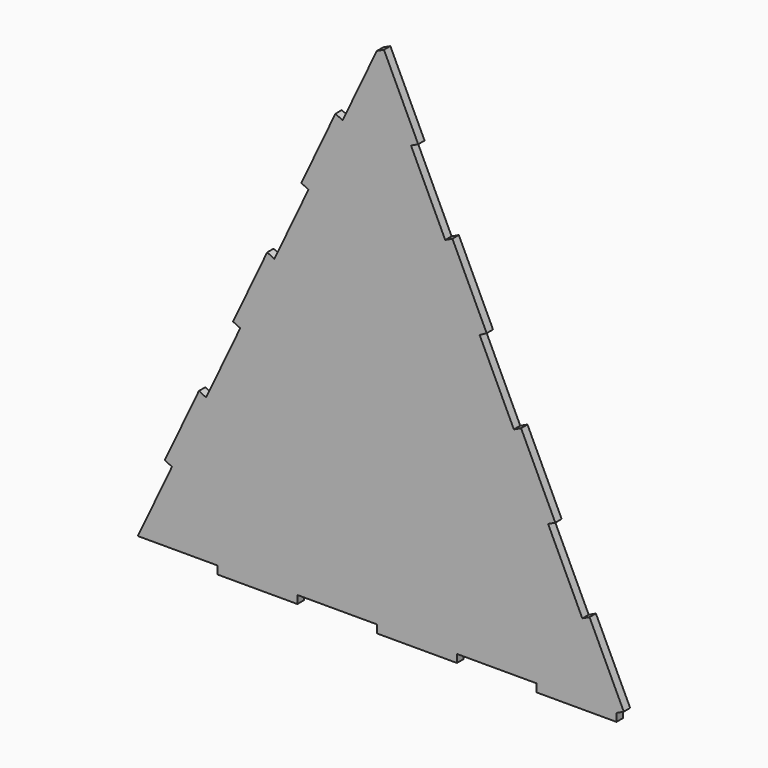
from build123d import *

# Parameters (mm, degrees)
F0_W     = 25.4
F0_H     = 2.54
F1_DEPTH = 2.54


with BuildPart() as f1:
    # F0 (on Front) → F1 (new body)
    with BuildSketch(Plane.XZ):
        Polygon((10.900511, 62.895621), (0, 85.837697), (-10.866994, 62.879726), (-21.733987, 39.921754), (-32.600981, 16.963783), (-43.467974, -5.994189), (-54.334968, -28.95216), (-65.201961, -51.910132), (-76.068955, -74.868103), (-50.668955, -74.868103), (-25.268955, -74.868103), (0.131045, -74.868103), (25.531045, -74.868103), (50.931045, -74.868103), (76.356445, -74.868103), (65.455934, -51.926027), (54.555423, -28.983951), (43.654912, -6.041875), (32.7544, 16.900201), (21.801022, 39.953545), align=None)
        Polygon((2.294208, 86.927748), (0, 85.837697), (10.900511, 62.895621), (13.194719, 63.985672), align=None)
        Polygon((-21.733987, 39.921754), (-10.866994, 62.879726), (-13.162791, 63.966425), (-24.029784, 41.008454), align=None)
        Polygon((24.09253, 41.042313), (21.801022, 39.953545), (32.7544, 16.900201), (34.993042, 18.100237), align=None)
        Polygon((-43.467974, -5.994189), (-32.600981, 16.963783), (-34.896778, 18.050482), (-45.763771, -4.907489), align=None)
        Polygon((45.949119, -4.951824), (43.654912, -6.041875), (54.555423, -28.983951), (56.849631, -27.8939), align=None)
        Polygon((-65.201961, -51.910132), (-54.334968, -28.95216), (-56.630765, -27.865461), (-67.497758, -50.823432), align=None)
        Polygon((67.750142, -50.835976), (65.455934, -51.926027), (76.356445, -74.868103), (78.650653, -73.778052), align=None)
        Polygon((76.331045, -77.408103), (76.356445, -74.868103), (50.931045, -74.868103), (50.931045, -77.408103), align=None)
        with Locations((-37.968955, -76.138103)):
            Rectangle(F0_W, F0_H)
        with Locations((12.831045, -76.138103)):
            Rectangle(F0_W, F0_H)
    extrude(amount=F1_DEPTH)


solid = f1.part
